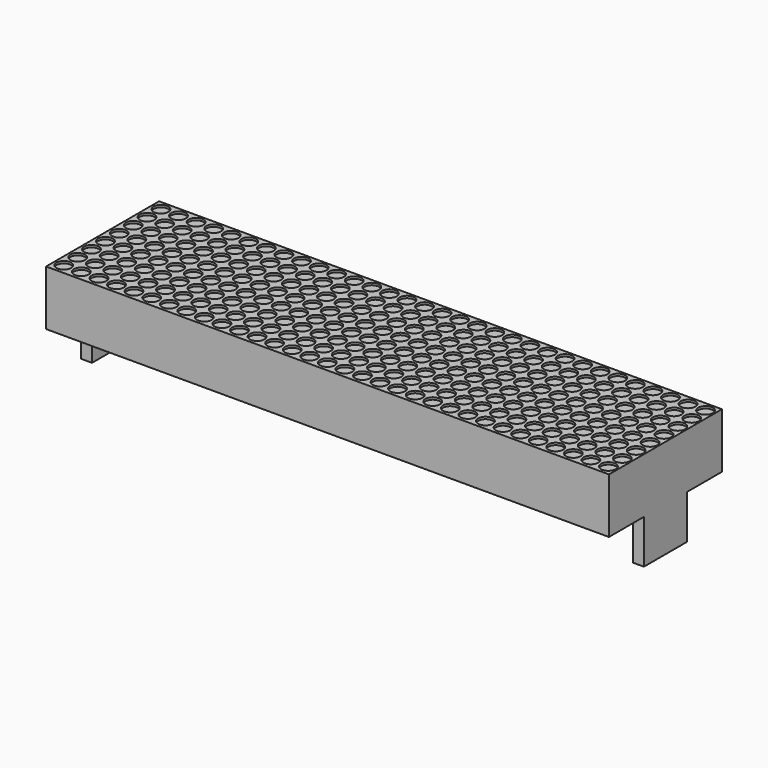
from build123d import *

# Parameters (mm, degrees)
F0_W     = 128.15
F0_H     = 32.15
F1_DEPTH = 12.55
F2_W     = 2.5
F2_H     = 12.25
F3_DEPTH = 10
F4_R     = 1.675
F5_DEPTH = 0.5


with BuildPart() as f1:
    # F0 (on Top) → F1 (new body)
    with BuildSketch(Plane.XY):
        Rectangle(F0_W, F0_H)
    extrude(amount=F1_DEPTH)

    # F2 (on face) → F3 (join)
    with BuildSketch(Plane(origin=(0, 0, 0), x_dir=(1, 0, 0), z_dir=(0, 0, -1))):
        with Locations((-62.825, 0)):
            Rectangle(F2_W, F2_H)
        with Locations((62.825, 0)):
            Rectangle(F2_W, F2_H)
    extrude(amount=F3_DEPTH)

    # F4 (on face) → F5 (cut)
    with BuildSketch(Plane.XY.offset(12.55)):
        with Locations((-61.9, 13.9)):
            Circle(F4_R)
        with Locations((-61.9, 9.95)):
            Circle(F4_R)
        with Locations((-61.9, 6)):
            Circle(F4_R)
        with Locations((-61.9, 2.05)):
            Circle(F4_R)
        with Locations((-61.9, -1.9)):
            Circle(F4_R)
        with Locations((-61.9, -5.85)):
            Circle(F4_R)
        with Locations((-61.9, -9.8)):
            Circle(F4_R)
        with Locations((-61.9, -13.75)):
            Circle(F4_R)
        with Locations((-57.9, 13.9)):
            Circle(F4_R)
        with Locations((-57.9, 9.95)):
            Circle(F4_R)
        with Locations((-57.9, 6)):
            Circle(F4_R)
        with Locations((-57.9, 2.05)):
            Circle(F4_R)
        with Locations((-57.9, -1.9)):
            Circle(F4_R)
        with Locations((-57.9, -5.85)):
            Circle(F4_R)
        with Locations((-57.9, -9.8)):
            Circle(F4_R)
        with Locations((-57.9, -13.75)):
            Circle(F4_R)
        with Locations((-53.9, 13.9)):
            Circle(F4_R)
        with Locations((-53.9, 9.95)):
            Circle(F4_R)
        with Locations((-53.9, 6)):
            Circle(F4_R)
        with Locations((-53.9, 2.05)):
            Circle(F4_R)
        with Locations((-53.9, -1.9)):
            Circle(F4_R)
        with Locations((-53.9, -5.85)):
            Circle(F4_R)
        with Locations((-53.9, -9.8)):
            Circle(F4_R)
        with Locations((-53.9, -13.75)):
            Circle(F4_R)
        with Locations((-49.9, 13.9)):
            Circle(F4_R)
        with Locations((-49.9, 9.95)):
            Circle(F4_R)
        with Locations((-49.9, 6)):
            Circle(F4_R)
        with Locations((-49.9, 2.05)):
            Circle(F4_R)
        with Locations((-49.9, -1.9)):
            Circle(F4_R)
        with Locations((-49.9, -5.85)):
            Circle(F4_R)
        with Locations((-49.9, -9.8)):
            Circle(F4_R)
        with Locations((-49.9, -13.75)):
            Circle(F4_R)
        with Locations((-45.9, 13.9)):
            Circle(F4_R)
        with Locations((-45.9, 9.95)):
            Circle(F4_R)
        with Locations((-45.9, 6)):
            Circle(F4_R)
        with Locations((-45.9, 2.05)):
            Circle(F4_R)
        with Locations((-45.9, -1.9)):
            Circle(F4_R)
        with Locations((-45.9, -5.85)):
            Circle(F4_R)
        with Locations((-45.9, -9.8)):
            Circle(F4_R)
        with Locations((-45.9, -13.75)):
            Circle(F4_R)
        with Locations((-41.9, 13.9)):
            Circle(F4_R)
        with Locations((-41.9, 9.95)):
            Circle(F4_R)
        with Locations((-41.9, 6)):
            Circle(F4_R)
        with Locations((-41.9, 2.05)):
            Circle(F4_R)
        with Locations((-41.9, -1.9)):
            Circle(F4_R)
        with Locations((-41.9, -5.85)):
            Circle(F4_R)
        with Locations((-41.9, -9.8)):
            Circle(F4_R)
        with Locations((-41.9, -13.75)):
            Circle(F4_R)
        with Locations((-37.9, 13.9)):
            Circle(F4_R)
        with Locations((-37.9, 9.95)):
            Circle(F4_R)
        with Locations((-37.9, 6)):
            Circle(F4_R)
        with Locations((-37.9, 2.05)):
            Circle(F4_R)
        with Locations((-37.9, -1.9)):
            Circle(F4_R)
        with Locations((-37.9, -5.85)):
            Circle(F4_R)
        with Locations((-37.9, -9.8)):
            Circle(F4_R)
        with Locations((-37.9, -13.75)):
            Circle(F4_R)
        with Locations((-33.9, 13.9)):
            Circle(F4_R)
        with Locations((-33.9, 9.95)):
            Circle(F4_R)
        with Locations((-33.9, 6)):
            Circle(F4_R)
        with Locations((-33.9, 2.05)):
            Circle(F4_R)
        with Locations((-33.9, -1.9)):
            Circle(F4_R)
        with Locations((-33.9, -5.85)):
            Circle(F4_R)
        with Locations((-33.9, -9.8)):
            Circle(F4_R)
        with Locations((-33.9, -13.75)):
            Circle(F4_R)
        with Locations((-29.9, 13.9)):
            Circle(F4_R)
        with Locations((-29.9, 9.95)):
            Circle(F4_R)
        with Locations((-29.9, 6)):
            Circle(F4_R)
        with Locations((-29.9, 2.05)):
            Circle(F4_R)
        with Locations((-29.9, -1.9)):
            Circle(F4_R)
        with Locations((-29.9, -5.85)):
            Circle(F4_R)
        with Locations((-29.9, -9.8)):
            Circle(F4_R)
        with Locations((-29.9, -13.75)):
            Circle(F4_R)
        with Locations((-25.9, 13.9)):
            Circle(F4_R)
        with Locations((-25.9, 9.95)):
            Circle(F4_R)
        with Locations((-25.9, 6)):
            Circle(F4_R)
        with Locations((-25.9, 2.05)):
            Circle(F4_R)
        with Locations((-25.9, -1.9)):
            Circle(F4_R)
        with Locations((-25.9, -5.85)):
            Circle(F4_R)
        with Locations((-25.9, -9.8)):
            Circle(F4_R)
        with Locations((-25.9, -13.75)):
            Circle(F4_R)
        with Locations((-21.9, 13.9)):
            Circle(F4_R)
        with Locations((-21.9, 9.95)):
            Circle(F4_R)
        with Locations((-21.9, 6)):
            Circle(F4_R)
        with Locations((-21.9, 2.05)):
            Circle(F4_R)
        with Locations((-21.9, -1.9)):
            Circle(F4_R)
        with Locations((-21.9, -5.85)):
            Circle(F4_R)
        with Locations((-21.9, -9.8)):
            Circle(F4_R)
        with Locations((-21.9, -13.75)):
            Circle(F4_R)
        with Locations((-17.9, 13.9)):
            Circle(F4_R)
        with Locations((-17.9, 9.95)):
            Circle(F4_R)
        with Locations((-17.9, 6)):
            Circle(F4_R)
        with Locations((-17.9, 2.05)):
            Circle(F4_R)
        with Locations((-17.9, -1.9)):
            Circle(F4_R)
        with Locations((-17.9, -5.85)):
            Circle(F4_R)
        with Locations((-17.9, -9.8)):
            Circle(F4_R)
        with Locations((-17.9, -13.75)):
            Circle(F4_R)
        with Locations((-13.9, 13.9)):
            Circle(F4_R)
        with Locations((-13.9, 9.95)):
            Circle(F4_R)
        with Locations((-13.9, 6)):
            Circle(F4_R)
        with Locations((-13.9, 2.05)):
            Circle(F4_R)
        with Locations((-13.9, -1.9)):
            Circle(F4_R)
        with Locations((-13.9, -5.85)):
            Circle(F4_R)
        with Locations((-13.9, -9.8)):
            Circle(F4_R)
        with Locations((-13.9, -13.75)):
            Circle(F4_R)
        with Locations((-9.9, 13.9)):
            Circle(F4_R)
        with Locations((-9.9, 9.95)):
            Circle(F4_R)
        with Locations((-9.9, 6)):
            Circle(F4_R)
        with Locations((-9.9, 2.05)):
            Circle(F4_R)
        with Locations((-9.9, -1.9)):
            Circle(F4_R)
        with Locations((-9.9, -5.85)):
            Circle(F4_R)
        with Locations((-9.9, -9.8)):
            Circle(F4_R)
        with Locations((-9.9, -13.75)):
            Circle(F4_R)
        with Locations((-5.9, 13.9)):
            Circle(F4_R)
        with Locations((-5.9, 9.95)):
            Circle(F4_R)
        with Locations((-5.9, 6)):
            Circle(F4_R)
        with Locations((-5.9, 2.05)):
            Circle(F4_R)
        with Locations((-5.9, -1.9)):
            Circle(F4_R)
        with Locations((-5.9, -5.85)):
            Circle(F4_R)
        with Locations((-5.9, -9.8)):
            Circle(F4_R)
        with Locations((-5.9, -13.75)):
            Circle(F4_R)
        with Locations((-1.9, 13.9)):
            Circle(F4_R)
        with Locations((-1.9, 9.95)):
            Circle(F4_R)
        with Locations((-1.9, 6)):
            Circle(F4_R)
        with Locations((-1.9, 2.05)):
            Circle(F4_R)
        with Locations((-1.9, -1.9)):
            Circle(F4_R)
        with Locations((-1.9, -5.85)):
            Circle(F4_R)
        with Locations((-1.9, -9.8)):
            Circle(F4_R)
        with Locations((-1.9, -13.75)):
            Circle(F4_R)
        with Locations((2.1, 13.9)):
            Circle(F4_R)
        with Locations((2.1, 9.95)):
            Circle(F4_R)
        with Locations((2.1, 6)):
            Circle(F4_R)
        with Locations((2.1, 2.05)):
            Circle(F4_R)
        with Locations((2.1, -1.9)):
            Circle(F4_R)
        with Locations((2.1, -5.85)):
            Circle(F4_R)
        with Locations((2.1, -9.8)):
            Circle(F4_R)
        with Locations((2.1, -13.75)):
            Circle(F4_R)
        with Locations((6.1, 13.9)):
            Circle(F4_R)
        with Locations((6.1, 9.95)):
            Circle(F4_R)
        with Locations((6.1, 6)):
            Circle(F4_R)
        with Locations((6.1, 2.05)):
            Circle(F4_R)
        with Locations((6.1, -1.9)):
            Circle(F4_R)
        with Locations((6.1, -5.85)):
            Circle(F4_R)
        with Locations((6.1, -9.8)):
            Circle(F4_R)
        with Locations((6.1, -13.75)):
            Circle(F4_R)
        with Locations((10.1, 13.9)):
            Circle(F4_R)
        with Locations((10.1, 9.95)):
            Circle(F4_R)
        with Locations((10.1, 6)):
            Circle(F4_R)
        with Locations((10.1, 2.05)):
            Circle(F4_R)
        with Locations((10.1, -1.9)):
            Circle(F4_R)
        with Locations((10.1, -5.85)):
            Circle(F4_R)
        with Locations((10.1, -9.8)):
            Circle(F4_R)
        with Locations((10.1, -13.75)):
            Circle(F4_R)
        with Locations((14.1, 13.9)):
            Circle(F4_R)
        with Locations((14.1, 9.95)):
            Circle(F4_R)
        with Locations((14.1, 6)):
            Circle(F4_R)
        with Locations((14.1, 2.05)):
            Circle(F4_R)
        with Locations((14.1, -1.9)):
            Circle(F4_R)
        with Locations((14.1, -5.85)):
            Circle(F4_R)
        with Locations((14.1, -9.8)):
            Circle(F4_R)
        with Locations((14.1, -13.75)):
            Circle(F4_R)
        with Locations((18.1, 13.9)):
            Circle(F4_R)
        with Locations((18.1, 9.95)):
            Circle(F4_R)
        with Locations((18.1, 6)):
            Circle(F4_R)
        with Locations((18.1, 2.05)):
            Circle(F4_R)
        with Locations((18.1, -1.9)):
            Circle(F4_R)
        with Locations((18.1, -5.85)):
            Circle(F4_R)
        with Locations((18.1, -9.8)):
            Circle(F4_R)
        with Locations((18.1, -13.75)):
            Circle(F4_R)
        with Locations((22.1, 13.9)):
            Circle(F4_R)
        with Locations((22.1, 9.95)):
            Circle(F4_R)
        with Locations((22.1, 6)):
            Circle(F4_R)
        with Locations((22.1, 2.05)):
            Circle(F4_R)
        with Locations((22.1, -1.9)):
            Circle(F4_R)
        with Locations((22.1, -5.85)):
            Circle(F4_R)
        with Locations((22.1, -9.8)):
            Circle(F4_R)
        with Locations((22.1, -13.75)):
            Circle(F4_R)
        with Locations((26.1, 13.9)):
            Circle(F4_R)
        with Locations((26.1, 9.95)):
            Circle(F4_R)
        with Locations((26.1, 6)):
            Circle(F4_R)
        with Locations((26.1, 2.05)):
            Circle(F4_R)
        with Locations((26.1, -1.9)):
            Circle(F4_R)
        with Locations((26.1, -5.85)):
            Circle(F4_R)
        with Locations((26.1, -9.8)):
            Circle(F4_R)
        with Locations((26.1, -13.75)):
            Circle(F4_R)
        with Locations((30.1, 13.9)):
            Circle(F4_R)
        with Locations((30.1, 9.95)):
            Circle(F4_R)
        with Locations((30.1, 6)):
            Circle(F4_R)
        with Locations((30.1, 2.05)):
            Circle(F4_R)
        with Locations((30.1, -1.9)):
            Circle(F4_R)
        with Locations((30.1, -5.85)):
            Circle(F4_R)
        with Locations((30.1, -9.8)):
            Circle(F4_R)
        with Locations((30.1, -13.75)):
            Circle(F4_R)
        with Locations((34.1, 13.9)):
            Circle(F4_R)
        with Locations((34.1, 9.95)):
            Circle(F4_R)
        with Locations((34.1, 6)):
            Circle(F4_R)
        with Locations((34.1, 2.05)):
            Circle(F4_R)
        with Locations((34.1, -1.9)):
            Circle(F4_R)
        with Locations((34.1, -5.85)):
            Circle(F4_R)
        with Locations((34.1, -9.8)):
            Circle(F4_R)
        with Locations((34.1, -13.75)):
            Circle(F4_R)
        with Locations((38.1, 13.9)):
            Circle(F4_R)
        with Locations((38.1, 9.95)):
            Circle(F4_R)
        with Locations((38.1, 6)):
            Circle(F4_R)
        with Locations((38.1, 2.05)):
            Circle(F4_R)
        with Locations((38.1, -1.9)):
            Circle(F4_R)
        with Locations((38.1, -5.85)):
            Circle(F4_R)
        with Locations((38.1, -9.8)):
            Circle(F4_R)
        with Locations((38.1, -13.75)):
            Circle(F4_R)
        with Locations((42.1, 13.9)):
            Circle(F4_R)
        with Locations((42.1, 9.95)):
            Circle(F4_R)
        with Locations((42.1, 6)):
            Circle(F4_R)
        with Locations((42.1, 2.05)):
            Circle(F4_R)
        with Locations((42.1, -1.9)):
            Circle(F4_R)
        with Locations((42.1, -5.85)):
            Circle(F4_R)
        with Locations((42.1, -9.8)):
            Circle(F4_R)
        with Locations((42.1, -13.75)):
            Circle(F4_R)
        with Locations((46.1, 13.9)):
            Circle(F4_R)
        with Locations((46.1, 9.95)):
            Circle(F4_R)
        with Locations((46.1, 6)):
            Circle(F4_R)
        with Locations((46.1, 2.05)):
            Circle(F4_R)
        with Locations((46.1, -1.9)):
            Circle(F4_R)
        with Locations((46.1, -5.85)):
            Circle(F4_R)
        with Locations((46.1, -9.8)):
            Circle(F4_R)
        with Locations((46.1, -13.75)):
            Circle(F4_R)
        with Locations((50.1, 13.9)):
            Circle(F4_R)
        with Locations((50.1, 9.95)):
            Circle(F4_R)
        with Locations((50.1, 6)):
            Circle(F4_R)
        with Locations((50.1, 2.05)):
            Circle(F4_R)
        with Locations((50.1, -1.9)):
            Circle(F4_R)
        with Locations((50.1, -5.85)):
            Circle(F4_R)
        with Locations((50.1, -9.8)):
            Circle(F4_R)
        with Locations((50.1, -13.75)):
            Circle(F4_R)
        with Locations((54.1, 13.9)):
            Circle(F4_R)
        with Locations((54.1, 9.95)):
            Circle(F4_R)
        with Locations((54.1, 6)):
            Circle(F4_R)
        with Locations((54.1, 2.05)):
            Circle(F4_R)
        with Locations((54.1, -1.9)):
            Circle(F4_R)
        with Locations((54.1, -5.85)):
            Circle(F4_R)
        with Locations((54.1, -9.8)):
            Circle(F4_R)
        with Locations((54.1, -13.75)):
            Circle(F4_R)
        with Locations((58.1, 13.9)):
            Circle(F4_R)
        with Locations((58.1, 9.95)):
            Circle(F4_R)
        with Locations((58.1, 6)):
            Circle(F4_R)
        with Locations((58.1, 2.05)):
            Circle(F4_R)
        with Locations((58.1, -1.9)):
            Circle(F4_R)
        with Locations((58.1, -5.85)):
            Circle(F4_R)
        with Locations((58.1, -9.8)):
            Circle(F4_R)
        with Locations((58.1, -13.75)):
            Circle(F4_R)
        with Locations((62.1, 13.9)):
            Circle(F4_R)
        with Locations((62.1, 9.95)):
            Circle(F4_R)
        with Locations((62.1, 6)):
            Circle(F4_R)
        with Locations((62.1, 2.05)):
            Circle(F4_R)
        with Locations((62.1, -1.9)):
            Circle(F4_R)
        with Locations((62.1, -5.85)):
            Circle(F4_R)
        with Locations((62.1, -9.8)):
            Circle(F4_R)
        with Locations((62.1, -13.75)):
            Circle(F4_R)
    extrude(amount=-F5_DEPTH, mode=Mode.SUBTRACT)


solid = f1.part
